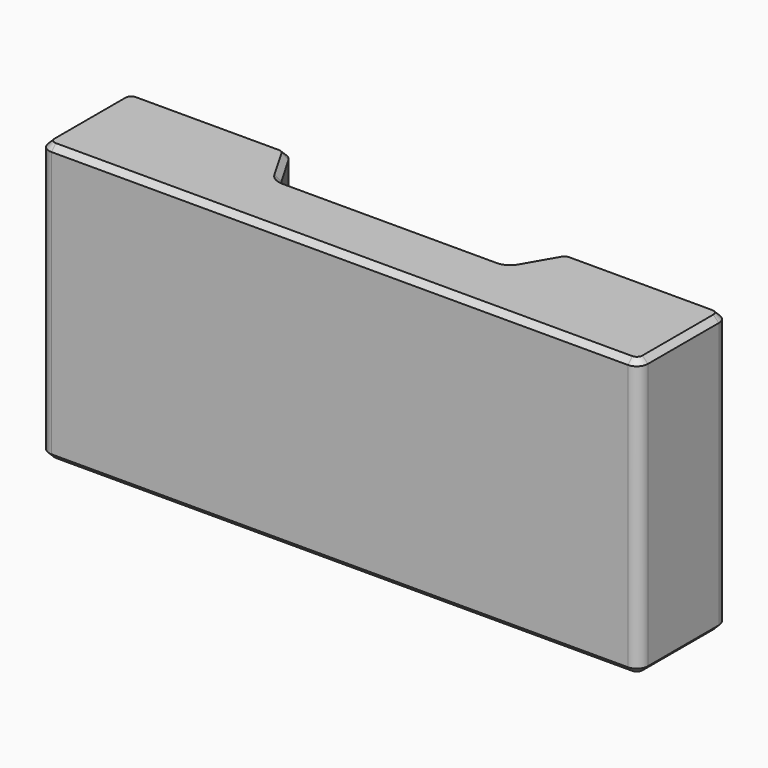
from build123d import *

# Parameters (mm, degrees)
F1_DEPTH = 25
F2_SIZE  = 0.5


with BuildPart() as f1:
    # F0 (on Top) → F1 (new body)
    with BuildSketch(Plane.XY):
        with BuildLine():
            Line((-26, 0), (0, 0))
            Line((0, 0), (26, 0))
            ThreePointArc((26, 0), (26.707107, 0.292893), (27, 1))
            Line((27, 1), (27, 9))
            ThreePointArc((27, 9), (26.707107, 9.707107), (26, 10))
            Line((26, 10), (13.07735, 10))
            ThreePointArc((13.07735, 10), (12.57735, 9.866025), (12.211325, 9.5))
            Line((12.211325, 9.5), (10.548556, 6.62))
            ThreePointArc((10.548556, 6.62), (10.182531, 6.253975), (9.682531, 6.12))
            Line((9.682531, 6.12), (0, 6.12))
            Line((0, 6.12), (-9.682531, 6.12))
            ThreePointArc((-9.682531, 6.12), (-10.182531, 6.253975), (-10.548556, 6.62))
            Line((-10.548556, 6.62), (-12.211325, 9.5))
            ThreePointArc((-12.211325, 9.5), (-12.57735, 9.866025), (-13.07735, 10))
            Line((-13.07735, 10), (-26, 10))
            ThreePointArc((-26, 10), (-26.707107, 9.707107), (-27, 9))
            Line((-27, 9), (-27, 1))
            ThreePointArc((-27, 1), (-26.707107, 0.292893), (-26, 0))
        make_face()
    extrude(amount=F1_DEPTH)

    # F2
    f2_edges = [f1.edges().sort_by_distance(p)[0] for p in [
        (19.538675, 10, 25),
        (-19.538675, 10, 0),
    ]]
    chamfer(f2_edges, length=F2_SIZE)


solid = f1.part
